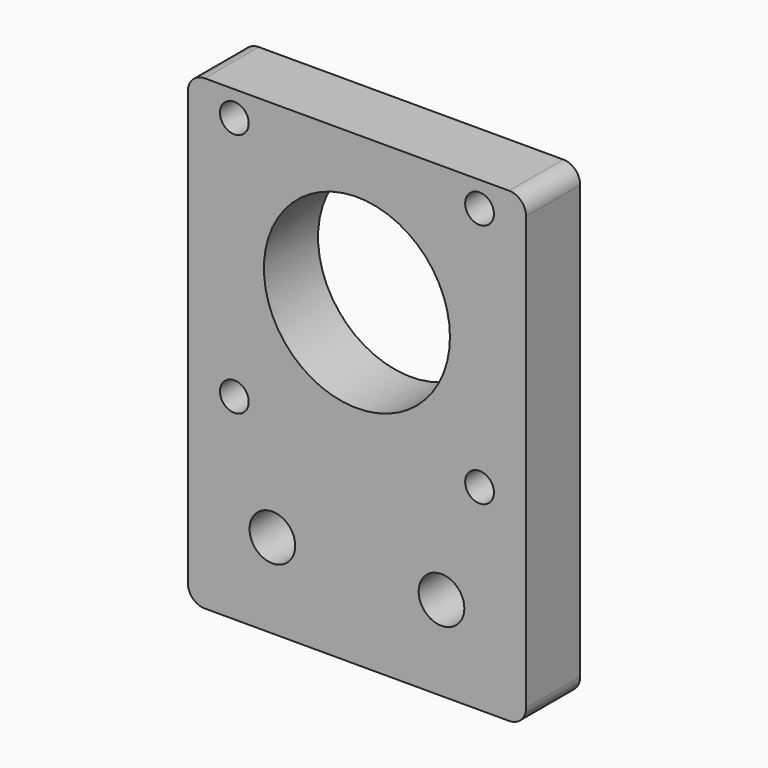
from build123d import *

# Parameters (mm, degrees)
F0_R     = 2.7
F0_R_2   = 1.7
F0_R_3   = 11
F1_DEPTH = 8


with BuildPart() as f1:
    # F0 (on Front) → F1 (new body)
    with BuildSketch(Plane.XZ):
        with BuildLine():
            ThreePointArc((-18, 17.5), (-19.414214, 16.914214), (-20, 15.5))
            Line((-20, 15.5), (-20, -35.7))
            ThreePointArc((-20, -35.7), (-19.414214, -37.114214), (-18, -37.7))
            Line((-18, -37.7), (18, -37.7))
            ThreePointArc((18, -37.7), (19.414214, -37.114214), (20, -35.7))
            Line((20, -35.7), (20, 15.5))
            ThreePointArc((20, 15.5), (19.414214, 16.914214), (18, 17.5))
            Line((18, 17.5), (-18, 17.5))
        make_face()
        with Locations((-10, -27.7)):
            Circle(F0_R, mode=Mode.SUBTRACT)
        with Locations((-14.5, -14.5)):
            Circle(F0_R_2, mode=Mode.SUBTRACT)
        with Locations((10, -27.7)):
            Circle(F0_R, mode=Mode.SUBTRACT)
        with Locations((14.5, -14.5)):
            Circle(F0_R_2, mode=Mode.SUBTRACT)
        with Locations((-14.5, 14.5)):
            Circle(F0_R_2, mode=Mode.SUBTRACT)
        Circle(F0_R_3, mode=Mode.SUBTRACT)
        with Locations((14.5, 14.5)):
            Circle(F0_R_2, mode=Mode.SUBTRACT)
    extrude(amount=-F1_DEPTH)


solid = f1.part
